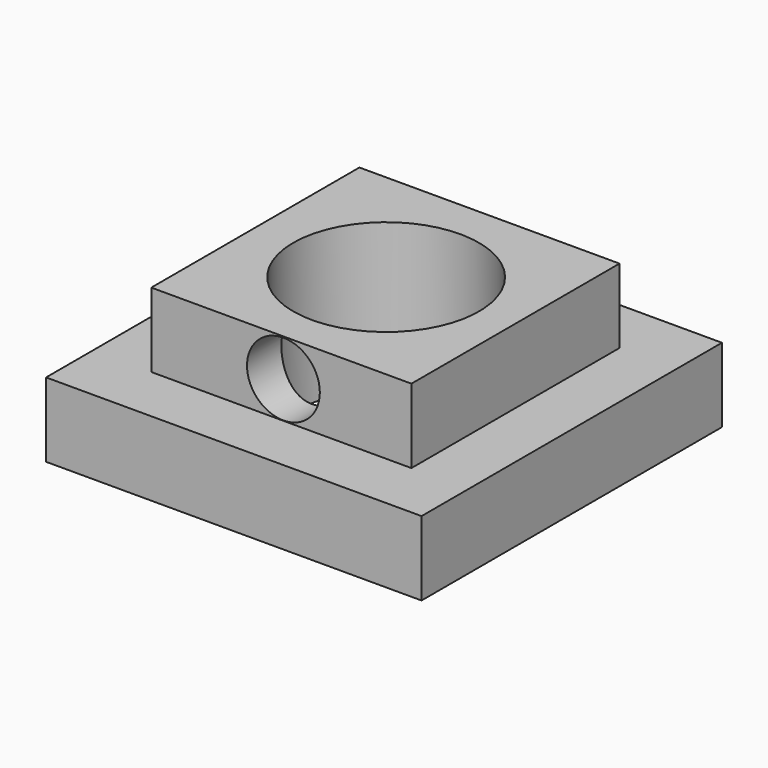
from build123d import *

# Parameters (mm, degrees)
F0_W     = 88.9
F0_H     = 88.9
F1_DEPTH = 50.8
F0_W_2   = 128.3277049661
F0_H_2   = 128.3277124166
F2_DEPTH = 25.4
F4_D     = 63.5
F6_D     = 24.892
F6_DEPTH = 63.8674141297


with BuildPart() as f1:
    # F0 (on Top) → F1 (new body)
    with BuildSketch(Plane.XY):
        with Locations((-0.7027200639, 0.5627498746)):
            Rectangle(F0_W, F0_H)
    extrude(amount=F1_DEPTH)

    # F0 (on Top) → F2 (join)
    with BuildSketch(Plane.XY):
        with Locations((-0.9680353105, 0.2974420786)):
            Rectangle(F0_W_2, F0_H_2)
        with Locations((-0.7027200639, 0.5627498746)):
            Rectangle(F0_W, F0_H, mode=Mode.SUBTRACT)
    extrude(amount=F2_DEPTH)

    # F4 (through all)
    with Locations(Plane(origin=(0, 0, 0), x_dir=(1, 0, 0), z_dir=(0, 0, -1))):
        with Locations((0, 0)):
            Hole(F4_D / 2)

    # F6 (through all, one way)
    with BuildSketch(Plane(origin=(0, 0, 0), x_dir=(1, 0, 0), z_dir=(0, 1, 0))):
        with Locations((0, -37.9534624517)):
            Circle(F6_D / 2)
    extrude(amount=-F6_DEPTH, mode=Mode.SUBTRACT)


solid = f1.part
